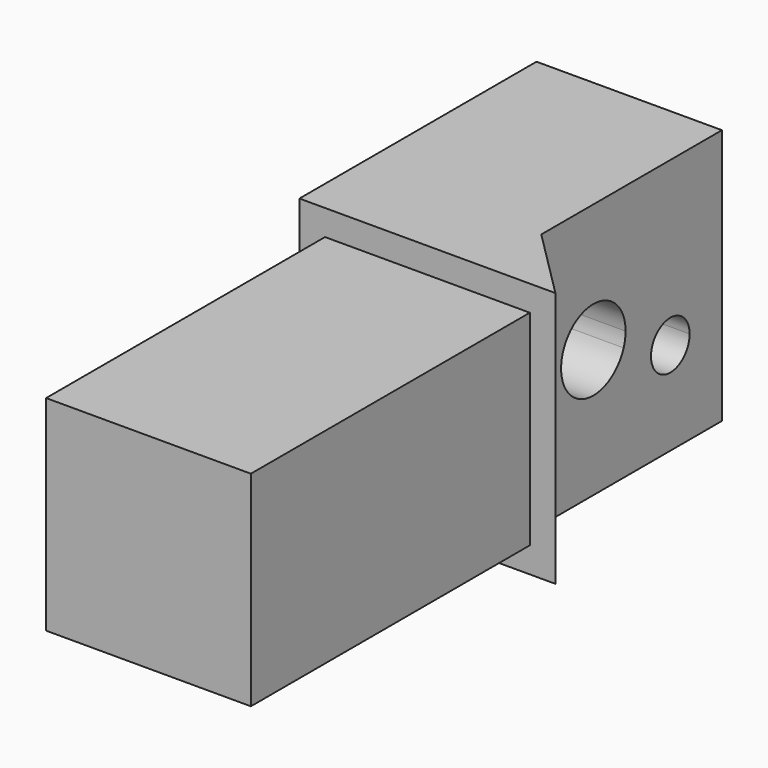
from build123d import *

# Parameters (mm, degrees)
F0_W     = 31.75
F0_H     = 80
F1_DEPTH = 31.75
F3_DEPTH = 31.751
F4_W     = 25.4
F4_H     = 10
F4_W_2   = 3.175
F4_H_2   = 43.2458060166
F5_DEPTH = 31.751
F6_W     = 47.7026679298
F6_H     = 12.140064659
F6_H_2   = 10.4135097936
F7_DEPTH = 31.751
F9_DEPTH = 31.751


with BuildPart() as f1:
    # F0 (on Top) → F1 (new body)
    with BuildSketch(Plane.XY):
        Rectangle(F0_W, F0_H)
    extrude(amount=F1_DEPTH)

    # F2 (on face) → F3 (cut, through all)
    with BuildSketch(Plane.YZ.offset(15.875)):
        with BuildLine():
            Line((20.065903716, 15.875), (25.065903716, 15.875))
            ThreePointArc((25.065903716, 15.875), (15.141864951, 16.7432408883), (24.7643668199, 14.1648992834))
            Line((24.7643668199, 14.1648992834), (20.065903716, 15.875))
        make_face()
        with BuildLine():
            ThreePointArc((34.9972, 11.5313441798), (32.5204583181, 14.4830099771), (29.183553277, 12.5564469533))
            ThreePointArc((29.183553277, 12.5564469533), (31.4795416819, 8.5796783824), (34.9972, 11.5313441798))
        make_face()
        with BuildLine():
            ThreePointArc((24.7643668199, 14.1648992834), (24.9899424811, 15.0067591117), (25.065903716, 15.875))
            Line((25.065903716, 15.875), (20.065903716, 15.875))
            Line((20.065903716, 15.875), (24.7643668199, 14.1648992834))
        make_face()
    extrude(amount=-F3_DEPTH, mode=Mode.SUBTRACT)

    # F4 (on face) → F5 (cut, through all)
    with BuildSketch(Plane.XY.offset(31.75)):
        with Locations((0, -45)):
            Rectangle(F4_W, F4_H)
        with Locations((14.2875, -18.3770969917)):
            Rectangle(F4_W_2, F4_H_2)
        with Locations((-14.2875, -18.3770969917)):
            Rectangle(F4_W_2, F4_H_2)
    extrude(amount=-F5_DEPTH, mode=Mode.SUBTRACT)

    # F6 (on face) → F7 (cut, through all)
    with BuildSketch(Plane.YZ.offset(15.875)):
        with Locations((-20.6055279483, 34.6450323295)):
            Rectangle(F6_W, F6_H)
        with Locations((-20.6055279483, -2.0317548968)):
            Rectangle(F6_W, F6_H_2)
    extrude(amount=-F7_DEPTH, mode=Mode.SUBTRACT)

    # F8 (on face) → F9 (cut, through all)
    with BuildSketch(Plane.XY.offset(31.75)):
        Polygon((15.875, 3.2458060166), (15.875, 40), (7.125, 40), (7.125, 11.9958060166), align=None)
    extrude(amount=-F9_DEPTH, mode=Mode.SUBTRACT)


solid = f1.part
